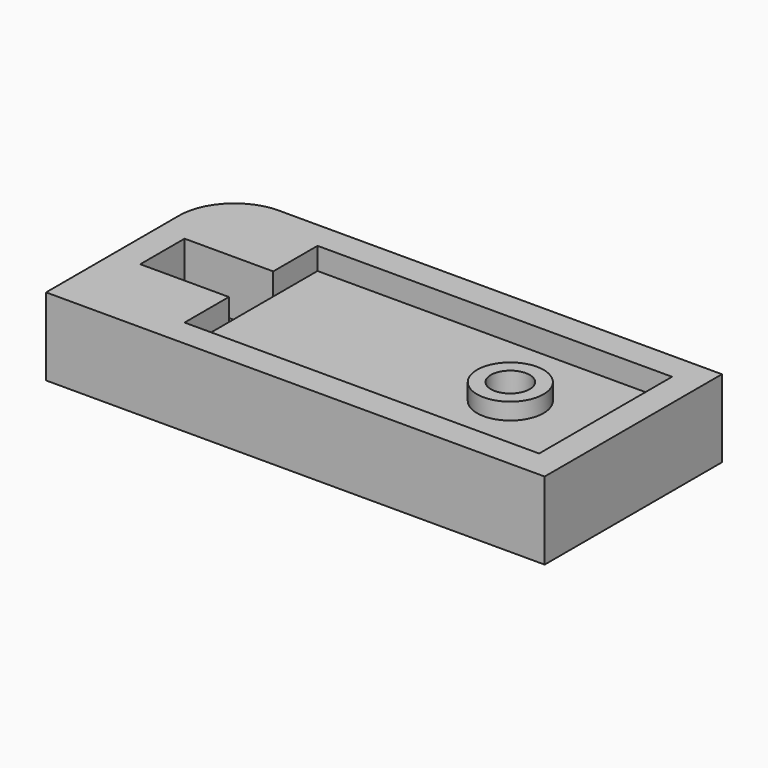
from build123d import *

# Parameters (mm, degrees)
F0_W      = 4
F0_H      = 5
F0_R      = 3
F0_R_2    = 1.75
F1_DEPTH  = 5
F2_DEPTH  = 7
F3_START  = 2
F1_FACE_R = 1.75
F3_DEPTH  = 6.5
F4_SIZE   = 2.5
F5_START  = 5
F5_DEPTH  = 1.5
F6_R      = 5


with BuildPart() as f1:
    # F0 (on Top) → F1 (new body)
    with BuildSketch(Plane.XY):
        Polygon((21.9938950613, 39.5450913161), (-23.0061049387, 39.5450913161), (-23.0061049387, 19.5450913161), (-9.9312635139, 19.5450913161), (10.0687364861, 19.5450913161), (21.9938950613, 19.5450913161), align=None)
        Polygon((-12.5061049387, 32.0450913161), (-12.5061049387, 37.0450913161), (19.4938950613, 37.0450913161), (19.4938950613, 22.0450913161), (-12.5061049387, 22.0450913161), (-12.5061049387, 27.0450913161), (-16.5061049387, 27.0450913161), (-20.5061049387, 27.0450913161), (-20.5061049387, 32.0450913161), (-16.5061049387, 32.0450913161), align=None, mode=Mode.SUBTRACT)
        with Locations((-18.5061049387, 29.5450913161)):
            Rectangle(F0_W, F0_H)
        with Locations((-14.5061049387, 29.5450913161)):
            Rectangle(F0_W, F0_H)
        Polygon((19.4938950613, 37.0450913161), (-12.5061049387, 37.0450913161), (-12.5061049387, 32.0450913161), (-12.5061049387, 27.0450913161), (-12.5061049387, 22.0450913161), (19.4938950613, 22.0450913161), align=None)
        with Locations((10.4938950613, 30.0450913161)):
            Circle(F0_R, mode=Mode.SUBTRACT)
        with Locations((10.4938950613, 30.0450913161)):
            Circle(F0_R)
        with Locations((10.4938950613, 30.0450913161)):
            Circle(F0_R_2, mode=Mode.SUBTRACT)
    extrude(amount=F1_DEPTH)

    # F0 (on Top) → F2 (join)
    with BuildSketch(Plane.XY):
        Polygon((21.9938950613, 39.5450913161), (-23.0061049387, 39.5450913161), (-23.0061049387, 19.5450913161), (-9.9312635139, 19.5450913161), (10.0687364861, 19.5450913161), (21.9938950613, 19.5450913161), align=None)
        Polygon((-12.5061049387, 32.0450913161), (-12.5061049387, 37.0450913161), (19.4938950613, 37.0450913161), (19.4938950613, 22.0450913161), (-12.5061049387, 22.0450913161), (-12.5061049387, 27.0450913161), (-16.5061049387, 27.0450913161), (-20.5061049387, 27.0450913161), (-20.5061049387, 32.0450913161), (-16.5061049387, 32.0450913161), align=None, mode=Mode.SUBTRACT)
    extrude(amount=F2_DEPTH)

    # F0 (on Top) + F1_face (on face) → F3 (cut)
    with BuildSketch(Plane.XY.offset(F3_START)):
        with Locations((-18.5061049387, 29.5450913161)):
            Rectangle(F0_W, F0_H)
        with Locations((-14.5061049387, 29.5450913161)):
            Rectangle(F0_W, F0_H)
    with BuildSketch(Plane(origin=(1.7944753963, 29.5356658402, 5), x_dir=(1, 0, 0), z_dir=(0, 0, 1)).offset(F3_START)):
        Polygon((-22.300580335, -2.4905745241), (-14.300580335, -2.4905745241), (-14.300580335, -7.4905745241), (17.699419665, -7.4905745241), (17.699419665, 7.5094254759), (-14.300580335, 7.5094254759), (-14.300580335, 2.5094254759), (-22.300580335, 2.5094254759), align=None)
        with Locations((8.699419665, 0.5094254759)):
            Circle(F1_FACE_R, mode=Mode.SUBTRACT)
    extrude(amount=F3_DEPTH, mode=Mode.SUBTRACT)

    # F4
    f4_edges = [f1.edges().sort_by_distance(p)[0] for p in [
        (8.743895, 30.045091, 0),
    ]]
    chamfer(f4_edges, length=F4_SIZE)

    # F0 (on Top) → F5 (join)
    with BuildSketch(Plane.XY.offset(F5_START)):
        with Locations((10.4938950613, 30.0450913161)):
            Circle(F0_R)
        with Locations((10.4938950613, 30.0450913161)):
            Circle(F0_R_2, mode=Mode.SUBTRACT)
    extrude(amount=F5_DEPTH)

    # F6
    f6_edges = [f1.edges().sort_by_distance(p)[0] for p in [
        (-23.006105, 39.545091, 3.5),
    ]]
    fillet(f6_edges, radius=F6_R)


solid = f1.part
